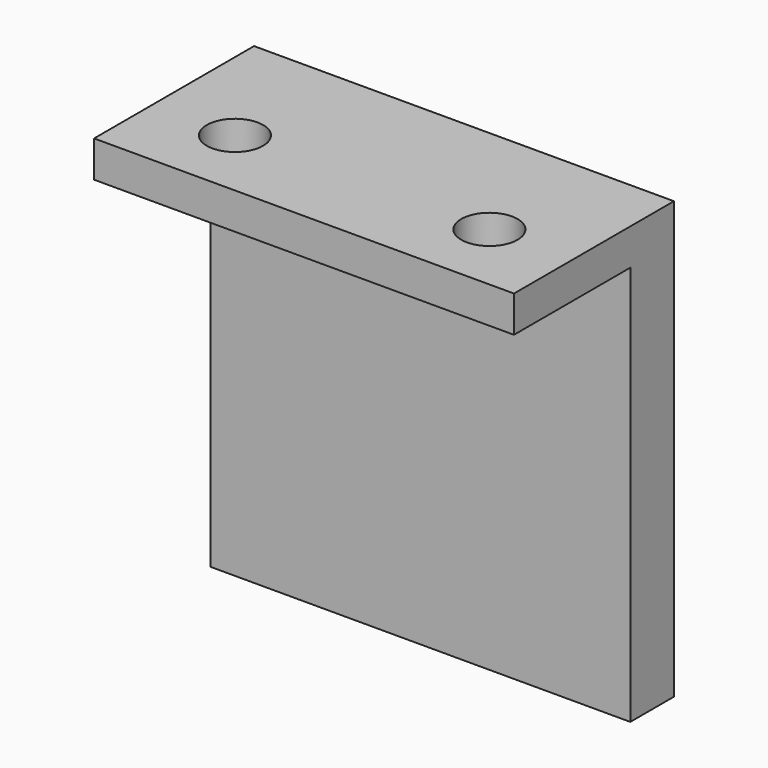
from build123d import *

# Parameters (mm, degrees)
F0_W     = 23.1
F0_H     = 8
F0_R     = 1.55
F0_H_2   = 3
F1_DEPTH = 2
F2_W     = 23.1
F2_H     = 3
F3_DEPTH = 22


with BuildPart() as f1:
    # F0 (on Top) → F1 (new body)
    with BuildSketch(Plane.XY):
        Rectangle(F0_W, F0_H)
        with Locations((-7, 0)):
            Circle(F0_R, mode=Mode.SUBTRACT)
        with Locations((7, 0)):
            Circle(F0_R, mode=Mode.SUBTRACT)
        with Locations((0, 5.5)):
            Rectangle(F0_W, F0_H_2)
    extrude(amount=F1_DEPTH)

    # F2 (on face) → F3 (join)
    with BuildSketch(Plane(origin=(0, 0, 0), x_dir=(1, 0, 0), z_dir=(0, 0, -1))):
        with Locations((0, -5.5)):
            Rectangle(F2_W, F2_H)
    extrude(amount=F3_DEPTH)


solid = f1.part
